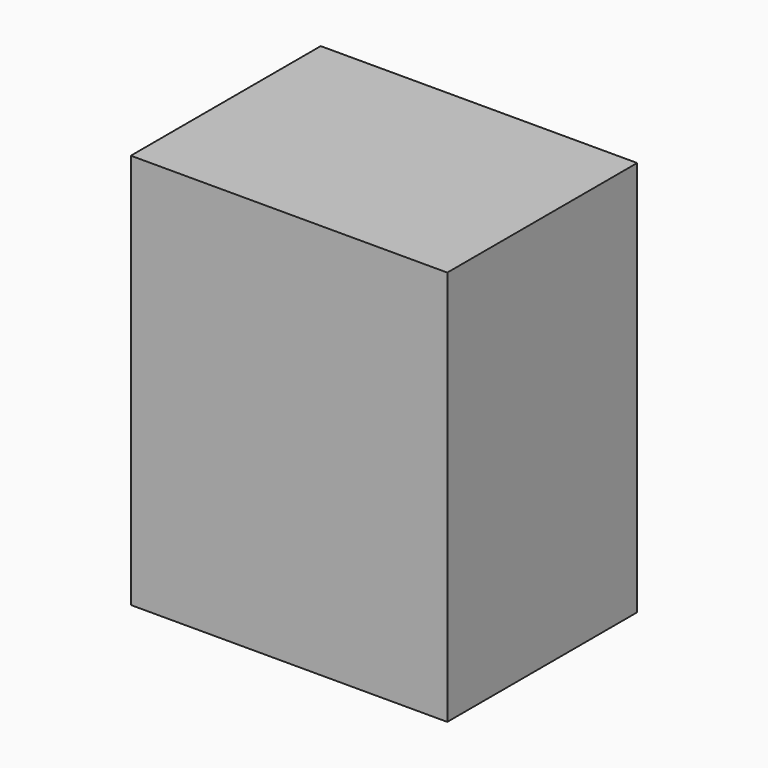
from build123d import *

# Parameters (mm, degrees)
BOX_W     = 20
BOX_H     = 15
BOX_DEPTH = 25


with BuildPart() as part:
    # Box → Box (new body)
    with BuildSketch(Plane.XY):
        with Locations((10, 7.5)):
            Rectangle(BOX_W, BOX_H)
    extrude(amount=BOX_DEPTH)


solid = part.part
